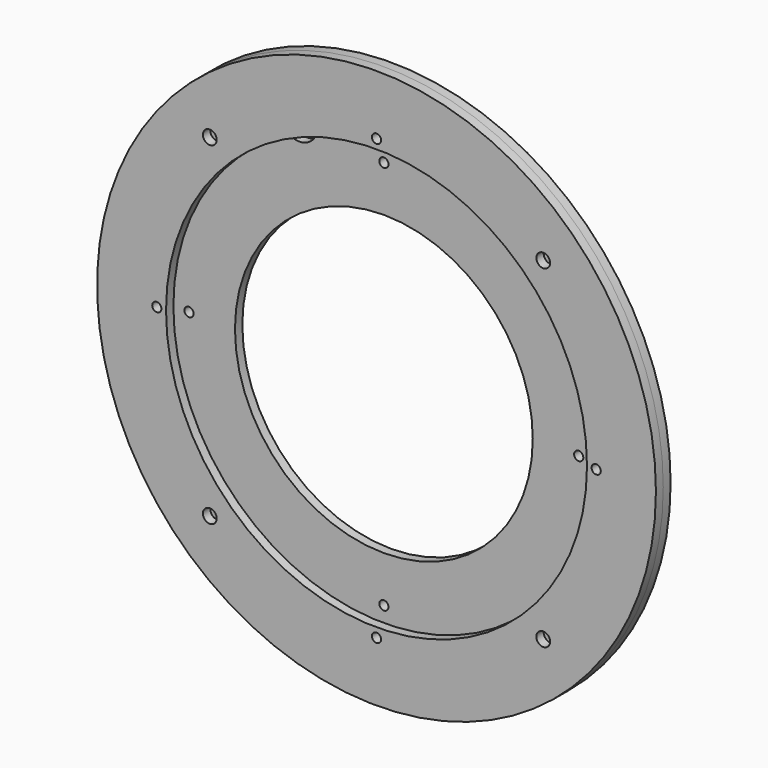
from build123d import *

# Parameters (mm, degrees)
F0_R      = 152
F0_R_2    = 81
F1_DEPTH  = 5
F2_R      = 2.5
F3_DEPTH  = 5
F5_DEPTH  = 5
F6_DEPTH  = 5
F7_DEPTH  = 5
F8_R      = 3.5
F8_R_2    = 9.75
F9_DEPTH  = 5
F10_R     = 152
F10_R_2   = 3.75
F10_R_3   = 2.5
F10_R_4   = 114.5
F11_DEPTH = 5


with BuildPart() as f1:
    # F0 (on Front) → F1 (new body)
    with BuildSketch(Plane.XZ):
        Circle(F0_R)
        Circle(F0_R_2, mode=Mode.SUBTRACT)
    extrude(amount=F1_DEPTH)

    # F2 (on face) → F3 (cut)
    with BuildSketch(Plane.XZ.offset(5)):
        with Locations((0, 106)):
            Circle(F2_R)
    extrude(amount=-F3_DEPTH, mode=Mode.SUBTRACT)

    # F2 (on face) → F5 (cut)
    with BuildSketch(Plane.XZ.offset(5)):
        with Locations((-106, 0)):
            Circle(F2_R)
    extrude(amount=-F5_DEPTH, mode=Mode.SUBTRACT)

    # F2 (on face) → F6 (cut)
    with BuildSketch(Plane.XZ.offset(5)):
        with Locations((0, -106)):
            Circle(F2_R)
    extrude(amount=-F6_DEPTH, mode=Mode.SUBTRACT)

    # F2 (on face) → F7 (cut)
    with BuildSketch(Plane.XZ.offset(5)):
        with Locations((106, 0)):
            Circle(F2_R)
    extrude(amount=-F7_DEPTH, mode=Mode.SUBTRACT)

    # F8 (on face) → F9 (cut, through all)
    with BuildSketch(Plane.XZ.offset(5)):
        with Locations((83.4386, 83.4386)):
            Circle(F8_R)
        with Locations((83.4386, -83.4386)):
            Circle(F8_R)
        with Locations((-83.4386, -83.4386)):
            Circle(F8_R)
        with Locations((-83.4386, 83.4386)):
            Circle(F8_R)
        with Locations((-45.922012, 110.865544)):
            Circle(F8_R_2)
    extrude(amount=-F9_DEPTH, mode=Mode.SUBTRACT)


with BuildPart() as f11:
    # F10 (on face) → F11 (new body)
    with BuildSketch(Plane.XZ.offset(5)):
        Circle(F10_R)
        with Locations((-90.686445, -90.686445)):
            Circle(F10_R_2, mode=Mode.SUBTRACT)
        with Locations((0, -119.5)):
            Circle(F10_R_3, mode=Mode.SUBTRACT)
        with Locations((90.686445, -90.686445)):
            Circle(F10_R_2, mode=Mode.SUBTRACT)
        with Locations((-119.5, 0)):
            Circle(F10_R_3, mode=Mode.SUBTRACT)
        with Locations((-90.686445, 90.686445)):
            Circle(F10_R_2, mode=Mode.SUBTRACT)
        Circle(F10_R_4, mode=Mode.SUBTRACT)
        with Locations((119.5, 0)):
            Circle(F10_R_3, mode=Mode.SUBTRACT)
        with Locations((0, 119.5)):
            Circle(F10_R_3, mode=Mode.SUBTRACT)
        with Locations((90.686445, 90.686445)):
            Circle(F10_R_2, mode=Mode.SUBTRACT)
    extrude(amount=F11_DEPTH)


solid = Compound([f1.part, f11.part])
